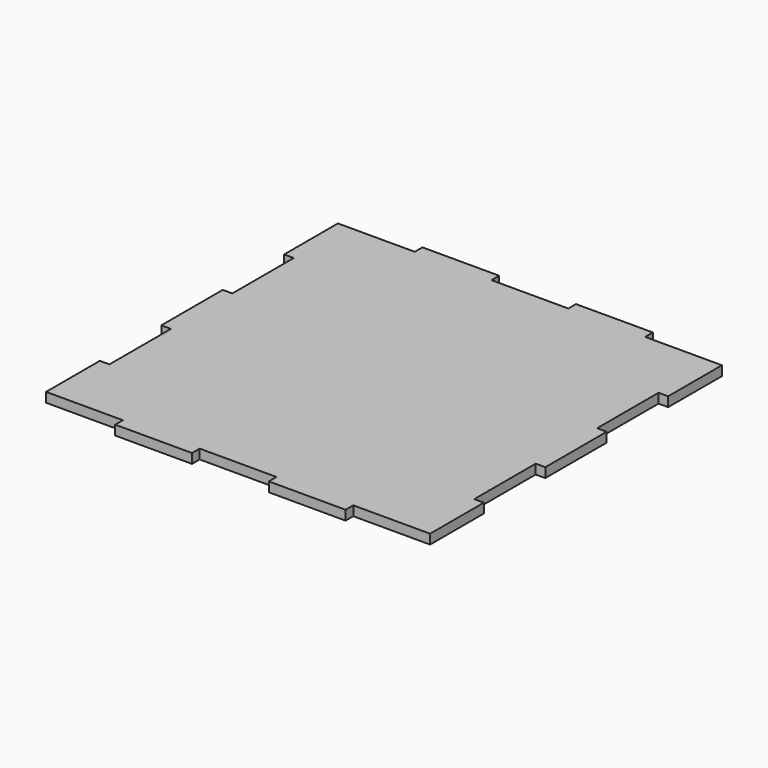
from build123d import *

# Parameters (mm, degrees)
F0_W     = 22.225
F0_H     = 22.225
F0_W_2   = 25.4
F0_H_2   = 25.4
F0_W_3   = 3.175
F0_H_3   = 3.175
F1_DEPTH = 3.175


with BuildPart() as f1:
    # F0 (on Top) → F1 (new body)
    with BuildSketch(Plane.XY):
        with Locations((-49.2125, 49.2125)):
            Rectangle(F0_W, F0_H)
        with Locations((-25.4, 49.2125)):
            Rectangle(F0_W_2, F0_H)
        with Locations((25.4, 49.2125)):
            Rectangle(F0_W_2, F0_H)
        with Locations((49.2125, 49.2125)):
            Rectangle(F0_W, F0_H)
        with Locations((49.2125, 25.4)):
            Rectangle(F0_W, F0_H_2)
        with Locations((25.4, 25.4)):
            Rectangle(F0_W_2, F0_H_2)
        with Locations((0, 25.4)):
            Rectangle(F0_W_2, F0_H_2)
        with Locations((-25.4, 25.4)):
            Rectangle(F0_W_2, F0_H_2)
        with Locations((-49.2125, 25.4)):
            Rectangle(F0_W, F0_H_2)
        with Locations((-49.2125, 0)):
            Rectangle(F0_W, F0_H_2)
        with Locations((-25.4, 0)):
            Rectangle(F0_W_2, F0_H_2)
        Rectangle(F0_W_2, F0_H_2)
        with Locations((25.4, 0)):
            Rectangle(F0_W_2, F0_H_2)
        with Locations((49.2125, 0)):
            Rectangle(F0_W, F0_H_2)
        with Locations((49.2125, -25.4)):
            Rectangle(F0_W, F0_H_2)
        with Locations((25.4, -25.4)):
            Rectangle(F0_W_2, F0_H_2)
        with Locations((0, -25.4)):
            Rectangle(F0_W_2, F0_H_2)
        with Locations((-25.4, -25.4)):
            Rectangle(F0_W_2, F0_H_2)
        with Locations((-49.2125, -25.4)):
            Rectangle(F0_W, F0_H_2)
        with Locations((-49.2125, -49.2125)):
            Rectangle(F0_W, F0_H)
        with Locations((-25.4, -49.2125)):
            Rectangle(F0_W_2, F0_H)
        with Locations((25.4, -49.2125)):
            Rectangle(F0_W_2, F0_H)
        with Locations((49.2125, -49.2125)):
            Rectangle(F0_W, F0_H)
        with Locations((0, 49.2125)):
            Rectangle(F0_W_2, F0_H)
        with Locations((0, -49.2125)):
            Rectangle(F0_W_2, F0_H)
        with Locations((-61.9125, -49.2125)):
            Rectangle(F0_W_3, F0_H)
        with Locations((-61.9125, 0)):
            Rectangle(F0_W_3, F0_H_2)
        with Locations((-61.9125, 49.2125)):
            Rectangle(F0_W_3, F0_H)
        with Locations((61.9125, 49.2125)):
            Rectangle(F0_W_3, F0_H)
        with Locations((61.9125, 0)):
            Rectangle(F0_W_3, F0_H_2)
        with Locations((61.9125, -49.2125)):
            Rectangle(F0_W_3, F0_H)
        with Locations((-25.4, -61.9125)):
            Rectangle(F0_W_2, F0_H_3)
        with Locations((25.4, -61.9125)):
            Rectangle(F0_W_2, F0_H_3)
        with Locations((-25.4, 61.9125)):
            Rectangle(F0_W_2, F0_H_3)
        with Locations((25.4, 61.9125)):
            Rectangle(F0_W_2, F0_H_3)
    extrude(amount=F1_DEPTH)


solid = f1.part
